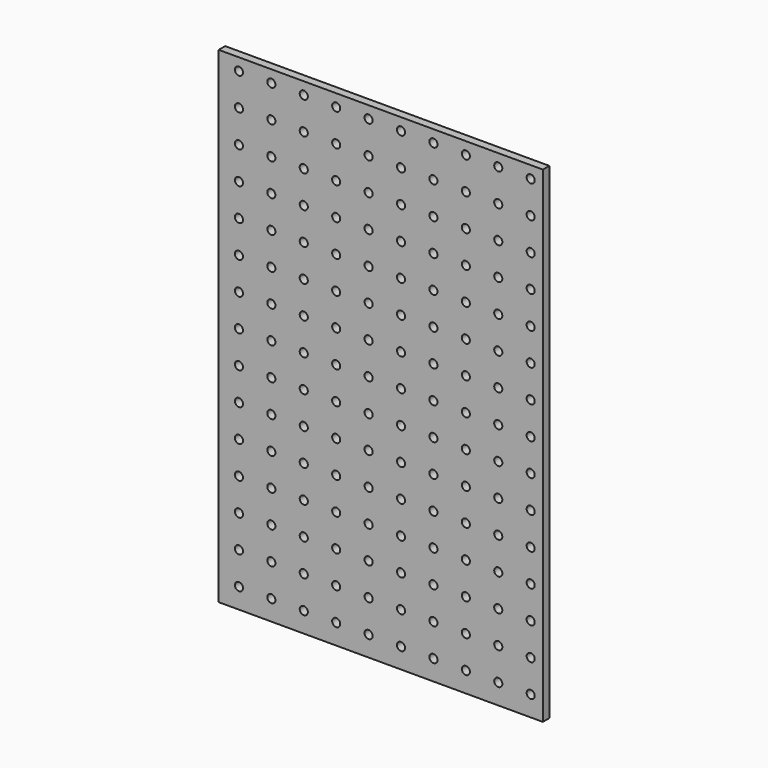
from build123d import *

# Parameters (mm, degrees)
F0_W     = 254
F0_H     = 381
F1_DEPTH = 6.35
F2_R     = 3.175
F3_DEPTH = 6.35


with BuildPart() as f1:
    # F0 (on Front) → F1 (new body)
    with BuildSketch(Plane.XZ):
        Rectangle(F0_W, F0_H)
    extrude(amount=F1_DEPTH)

    # F2 (on face) → F3 (cut, through all)
    with BuildSketch(Plane(origin=(0, 0, 0), x_dir=(-1, 0, 0), z_dir=(0, 1, 0))):
        with Locations((-117.475, 180.975)):
            Circle(F2_R)
        with Locations((-92.075, 180.975)):
            Circle(F2_R)
        with Locations((-66.675, 180.975)):
            Circle(F2_R)
        with Locations((-41.275, 180.975)):
            Circle(F2_R)
        with Locations((-15.875, 180.975)):
            Circle(F2_R)
        with Locations((9.525, 180.975)):
            Circle(F2_R)
        with Locations((34.925, 180.975)):
            Circle(F2_R)
        with Locations((60.325, 180.975)):
            Circle(F2_R)
        with Locations((85.725, 180.975)):
            Circle(F2_R)
        with Locations((111.125, 180.975)):
            Circle(F2_R)
        with Locations((111.125, 155.575)):
            Circle(F2_R)
        with Locations((85.725, 155.575)):
            Circle(F2_R)
        with Locations((60.325, 155.575)):
            Circle(F2_R)
        with Locations((34.925, 155.575)):
            Circle(F2_R)
        with Locations((9.525, 155.575)):
            Circle(F2_R)
        with Locations((-15.875, 155.575)):
            Circle(F2_R)
        with Locations((-41.275, 155.575)):
            Circle(F2_R)
        with Locations((-66.675, 155.575)):
            Circle(F2_R)
        with Locations((-92.075, 155.575)):
            Circle(F2_R)
        with Locations((-117.475, 155.575)):
            Circle(F2_R)
        with Locations((111.125, 130.175)):
            Circle(F2_R)
        with Locations((85.725, 130.175)):
            Circle(F2_R)
        with Locations((60.325, 130.175)):
            Circle(F2_R)
        with Locations((34.925, 130.175)):
            Circle(F2_R)
        with Locations((9.525, 130.175)):
            Circle(F2_R)
        with Locations((-15.875, 130.175)):
            Circle(F2_R)
        with Locations((-41.275, 130.175)):
            Circle(F2_R)
        with Locations((-66.675, 130.175)):
            Circle(F2_R)
        with Locations((-92.075, 130.175)):
            Circle(F2_R)
        with Locations((-117.475, 130.175)):
            Circle(F2_R)
        with Locations((111.125, 104.775)):
            Circle(F2_R)
        with Locations((85.725, 104.775)):
            Circle(F2_R)
        with Locations((60.325, 104.775)):
            Circle(F2_R)
        with Locations((34.925, 104.775)):
            Circle(F2_R)
        with Locations((9.525, 104.775)):
            Circle(F2_R)
        with Locations((-15.875, 104.775)):
            Circle(F2_R)
        with Locations((-41.275, 104.775)):
            Circle(F2_R)
        with Locations((-66.675, 104.775)):
            Circle(F2_R)
        with Locations((-92.075, 104.775)):
            Circle(F2_R)
        with Locations((-117.475, 104.775)):
            Circle(F2_R)
        with Locations((111.125, 79.375)):
            Circle(F2_R)
        with Locations((85.725, 79.375)):
            Circle(F2_R)
        with Locations((60.325, 79.375)):
            Circle(F2_R)
        with Locations((34.925, 79.375)):
            Circle(F2_R)
        with Locations((9.525, 79.375)):
            Circle(F2_R)
        with Locations((-15.875, 79.375)):
            Circle(F2_R)
        with Locations((-41.275, 79.375)):
            Circle(F2_R)
        with Locations((-66.675, 79.375)):
            Circle(F2_R)
        with Locations((-92.075, 79.375)):
            Circle(F2_R)
        with Locations((-117.475, 79.375)):
            Circle(F2_R)
        with Locations((111.125, 53.975)):
            Circle(F2_R)
        with Locations((85.725, 53.975)):
            Circle(F2_R)
        with Locations((60.325, 53.975)):
            Circle(F2_R)
        with Locations((34.925, 53.975)):
            Circle(F2_R)
        with Locations((9.525, 53.975)):
            Circle(F2_R)
        with Locations((-15.875, 53.975)):
            Circle(F2_R)
        with Locations((-41.275, 53.975)):
            Circle(F2_R)
        with Locations((-66.675, 53.975)):
            Circle(F2_R)
        with Locations((-92.075, 53.975)):
            Circle(F2_R)
        with Locations((-117.475, 53.975)):
            Circle(F2_R)
        with Locations((111.125, 28.575)):
            Circle(F2_R)
        with Locations((85.725, 28.575)):
            Circle(F2_R)
        with Locations((60.325, 28.575)):
            Circle(F2_R)
        with Locations((34.925, 28.575)):
            Circle(F2_R)
        with Locations((9.525, 28.575)):
            Circle(F2_R)
        with Locations((-15.875, 28.575)):
            Circle(F2_R)
        with Locations((-41.275, 28.575)):
            Circle(F2_R)
        with Locations((-66.675, 28.575)):
            Circle(F2_R)
        with Locations((-92.075, 28.575)):
            Circle(F2_R)
        with Locations((-117.475, 28.575)):
            Circle(F2_R)
        with Locations((111.125, 3.175)):
            Circle(F2_R)
        with Locations((85.725, 3.175)):
            Circle(F2_R)
        with Locations((60.325, 3.175)):
            Circle(F2_R)
        with Locations((34.925, 3.175)):
            Circle(F2_R)
        with Locations((9.525, 3.175)):
            Circle(F2_R)
        with Locations((-15.875, 3.175)):
            Circle(F2_R)
        with Locations((-41.275, 3.175)):
            Circle(F2_R)
        with Locations((-66.675, 3.175)):
            Circle(F2_R)
        with Locations((-92.075, 3.175)):
            Circle(F2_R)
        with Locations((-117.475, 3.175)):
            Circle(F2_R)
        with Locations((111.125, -22.225)):
            Circle(F2_R)
        with Locations((85.725, -22.225)):
            Circle(F2_R)
        with Locations((60.325, -22.225)):
            Circle(F2_R)
        with Locations((34.925, -22.225)):
            Circle(F2_R)
        with Locations((9.525, -22.225)):
            Circle(F2_R)
        with Locations((-15.875, -22.225)):
            Circle(F2_R)
        with Locations((-41.275, -22.225)):
            Circle(F2_R)
        with Locations((-66.675, -22.225)):
            Circle(F2_R)
        with Locations((-92.075, -22.225)):
            Circle(F2_R)
        with Locations((-117.475, -22.225)):
            Circle(F2_R)
        with Locations((111.125, -47.625)):
            Circle(F2_R)
        with Locations((85.725, -47.625)):
            Circle(F2_R)
        with Locations((60.325, -47.625)):
            Circle(F2_R)
        with Locations((34.925, -47.625)):
            Circle(F2_R)
        with Locations((9.525, -47.625)):
            Circle(F2_R)
        with Locations((-15.875, -47.625)):
            Circle(F2_R)
        with Locations((-41.275, -47.625)):
            Circle(F2_R)
        with Locations((-66.675, -47.625)):
            Circle(F2_R)
        with Locations((-92.075, -47.625)):
            Circle(F2_R)
        with Locations((-117.475, -47.625)):
            Circle(F2_R)
        with Locations((111.125, -73.025)):
            Circle(F2_R)
        with Locations((85.725, -73.025)):
            Circle(F2_R)
        with Locations((60.325, -73.025)):
            Circle(F2_R)
        with Locations((34.925, -73.025)):
            Circle(F2_R)
        with Locations((9.525, -73.025)):
            Circle(F2_R)
        with Locations((-15.875, -73.025)):
            Circle(F2_R)
        with Locations((-41.275, -73.025)):
            Circle(F2_R)
        with Locations((-66.675, -73.025)):
            Circle(F2_R)
        with Locations((-92.075, -73.025)):
            Circle(F2_R)
        with Locations((-117.475, -73.025)):
            Circle(F2_R)
        with Locations((111.125, -98.425)):
            Circle(F2_R)
        with Locations((85.725, -98.425)):
            Circle(F2_R)
        with Locations((60.325, -98.425)):
            Circle(F2_R)
        with Locations((34.925, -98.425)):
            Circle(F2_R)
        with Locations((9.525, -98.425)):
            Circle(F2_R)
        with Locations((-15.875, -98.425)):
            Circle(F2_R)
        with Locations((-41.275, -98.425)):
            Circle(F2_R)
        with Locations((-66.675, -98.425)):
            Circle(F2_R)
        with Locations((-92.075, -98.425)):
            Circle(F2_R)
        with Locations((-117.475, -98.425)):
            Circle(F2_R)
        with Locations((111.125, -123.825)):
            Circle(F2_R)
        with Locations((85.725, -123.825)):
            Circle(F2_R)
        with Locations((60.325, -123.825)):
            Circle(F2_R)
        with Locations((34.925, -123.825)):
            Circle(F2_R)
        with Locations((9.525, -123.825)):
            Circle(F2_R)
        with Locations((-15.875, -123.825)):
            Circle(F2_R)
        with Locations((-41.275, -123.825)):
            Circle(F2_R)
        with Locations((-66.675, -123.825)):
            Circle(F2_R)
        with Locations((-92.075, -123.825)):
            Circle(F2_R)
        with Locations((-117.475, -123.825)):
            Circle(F2_R)
        with Locations((111.125, -149.225)):
            Circle(F2_R)
        with Locations((85.725, -149.225)):
            Circle(F2_R)
        with Locations((60.325, -149.225)):
            Circle(F2_R)
        with Locations((34.925, -149.225)):
            Circle(F2_R)
        with Locations((9.525, -149.225)):
            Circle(F2_R)
        with Locations((-15.875, -149.225)):
            Circle(F2_R)
        with Locations((-41.275, -149.225)):
            Circle(F2_R)
        with Locations((-66.675, -149.225)):
            Circle(F2_R)
        with Locations((-92.075, -149.225)):
            Circle(F2_R)
        with Locations((-117.475, -149.225)):
            Circle(F2_R)
        with Locations((111.125, -174.625)):
            Circle(F2_R)
        with Locations((85.725, -174.625)):
            Circle(F2_R)
        with Locations((60.325, -174.625)):
            Circle(F2_R)
        with Locations((34.925, -174.625)):
            Circle(F2_R)
        with Locations((9.525, -174.625)):
            Circle(F2_R)
        with Locations((-15.875, -174.625)):
            Circle(F2_R)
        with Locations((-41.275, -174.625)):
            Circle(F2_R)
        with Locations((-66.675, -174.625)):
            Circle(F2_R)
        with Locations((-92.075, -174.625)):
            Circle(F2_R)
        with Locations((-117.475, -174.625)):
            Circle(F2_R)
    extrude(amount=-F3_DEPTH, mode=Mode.SUBTRACT)


solid = f1.part
